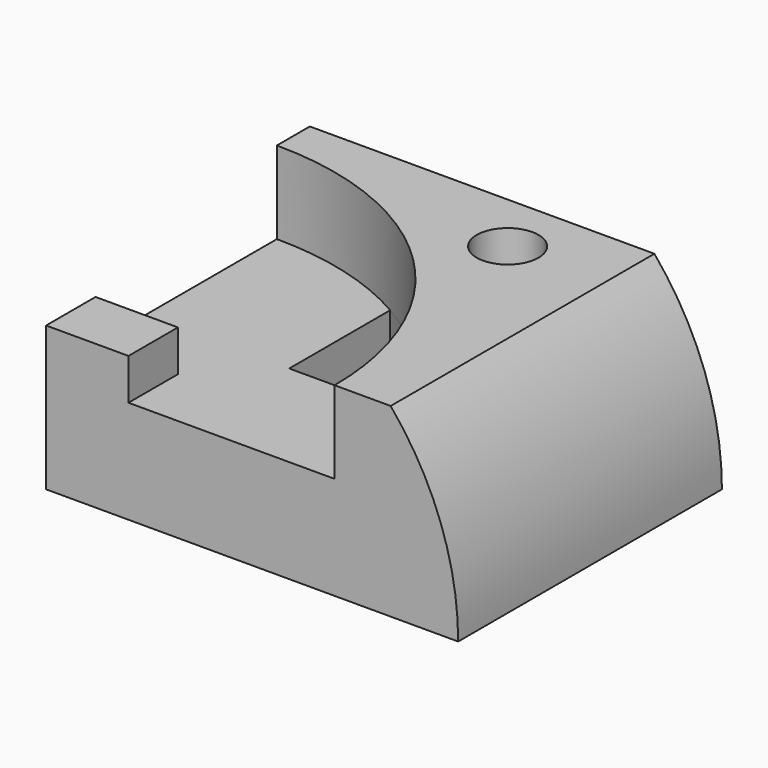
from build123d import *

# Parameters (mm, degrees)
F0_W      = 100
F0_H      = 80
F1_DEPTH  = 45
F2_R      = 70
F3_DEPTH  = 20
F4_W      = 20
F4_H      = 15
F5_DEPTH  = 10
F7_DEPTH  = 151.8
F8_R      = 7.5
F9_DEPTH  = 30
F11_DEPTH = 85.3


with BuildPart() as f1:
    # F0 (on Top) → F1 (new body)
    with BuildSketch(Plane.XY):
        with Locations((50, -40)):
            Rectangle(F0_W, F0_H)
    extrude(amount=F1_DEPTH)

    # F2 (on face) → F3 (cut)
    with BuildSketch(Plane.XY.offset(45)):
        with Locations((0, -80)):
            Circle(F2_R)
    extrude(amount=-F3_DEPTH, mode=Mode.SUBTRACT)

    # F4 (on face) → F5 (join)
    with BuildSketch(Plane.XY.offset(25)):
        with Locations((10, -72.5)):
            Rectangle(F4_W, F4_H)
    extrude(amount=F5_DEPTH)

    # F6 (on face) → F7 (cut)
    with BuildSketch(Plane.XY.offset(25)):
        with BuildLine():
            Line((35, -50), (63.245553, -50))
            ThreePointArc((63.245553, -50), (51.453576, -32.539179), (35, -19.378222))
            Line((35, -19.378222), (35, -50))
        make_face()
    extrude(amount=-F7_DEPTH, mode=Mode.SUBTRACT)

    # F8 (on face) → F9 (cut)
    with BuildSketch(Plane.XY.offset(45)):
        with Locations((60, -15)):
            Circle(F8_R)
    extrude(amount=-F9_DEPTH, mode=Mode.SUBTRACT)

    # F10 (on face) → F11 (cut)
    with BuildSketch(Plane.XZ.offset(80)):
        with BuildLine():
            ThreePointArc((83.619026, 45), (95.777397, 23.944395), (100, 0))
            Line((100, 0), (100, 45))
            Line((100, 45), (83.619026, 45))
        make_face()
    extrude(amount=-F11_DEPTH, mode=Mode.SUBTRACT)


solid = f1.part
